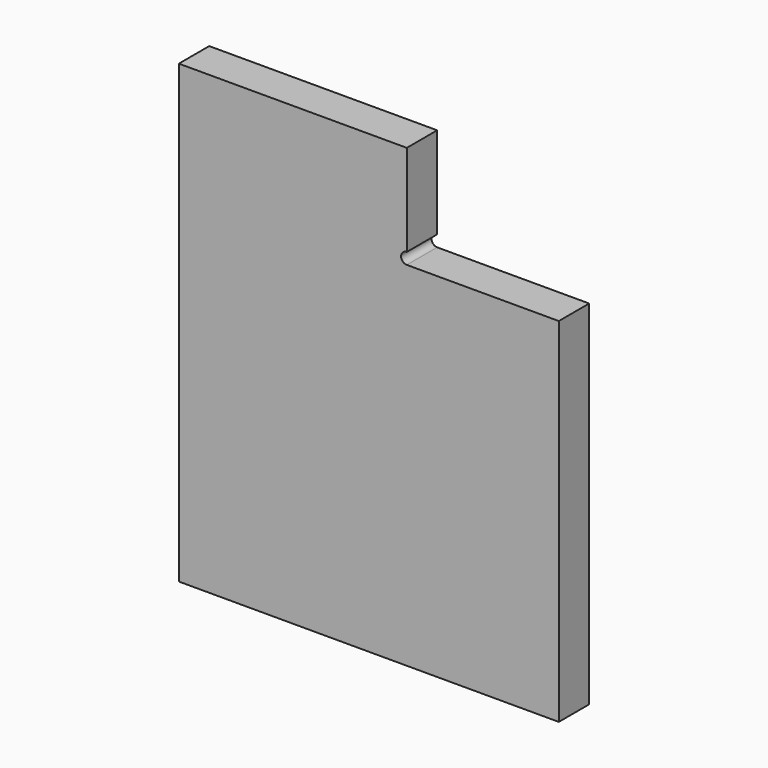
from build123d import *

# Parameters (mm, degrees)
F1_DEPTH = 12.7


with BuildPart() as f1:
    # F0 (on Front) → F1 (new body, symmetric)
    with BuildSketch(Plane.XZ):
        with BuildLine():
            Line((-166.352906, 186.268644), (-166.352906, -118.531356))
            Line((-166.352906, -118.531356), (87.647094, -118.531356))
            Line((87.647094, -118.531356), (87.647094, 117.383844))
            Line((87.647094, 117.383844), (-13.952906, 117.383844))
            ThreePointArc((-13.952906, 117.383844), (-17.762906, 121.193844), (-13.952906, 125.003844))
            Line((-13.952906, 125.003844), (-13.952906, 186.268644))
            Line((-13.952906, 186.268644), (-166.352906, 186.268644))
        make_face()
    extrude(amount=F1_DEPTH, both=True)


solid = f1.part
